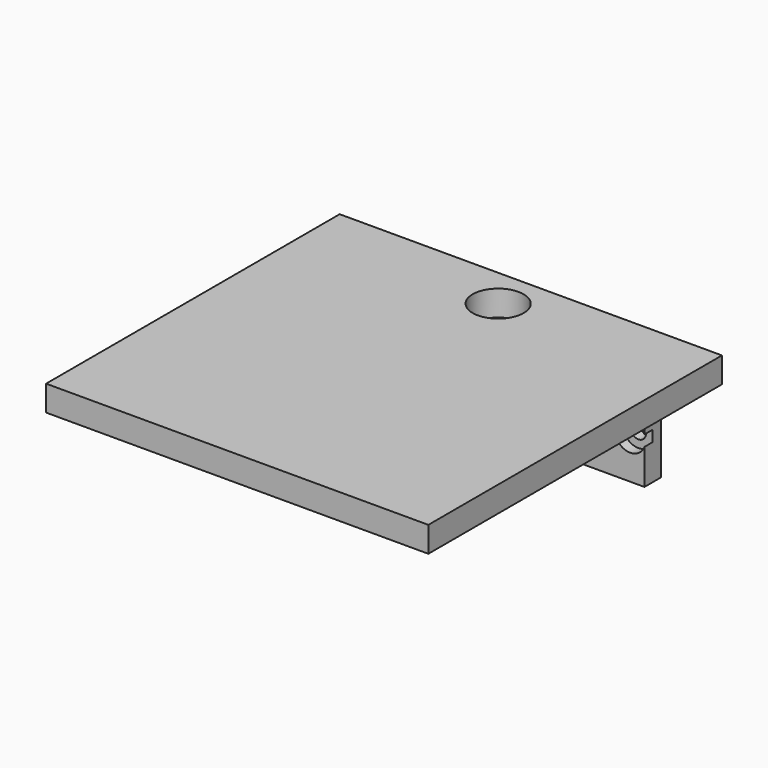
from build123d import *

# Parameters (mm, degrees)
SKETCH074_W     = 75
SKETCH074_H     = 72
SKETCH074_R     = 5
PAD027_DEPTH    = 5
SKETCH076_W     = 15
SKETCH076_H     = 15
PAD029_DEPTH    = 6
SKETCH077_W     = 7.8
SKETCH077_H     = 4
POCKET047_DEPTH = 15
SKETCH086_W     = 18
SKETCH086_H     = 4
PAD033_DEPTH    = 20
SKETCH087_R     = 1.5
POCKET053_DEPTH = 5
SKETCH088_R     = 3
POCKET054_DEPTH = 2


with BuildPart() as part:
    # Sketch074 → Pad027 (new body)
    with BuildSketch(Plane.XY):
        with Locations((0, -1)):
            Rectangle(SKETCH074_W, SKETCH074_H)
        with Locations((0, 27)):
            Circle(SKETCH074_R, mode=Mode.SUBTRACT)
    extrude(amount=PAD027_DEPTH)

    # Sketch076 → Pad029 (join)
    with BuildSketch(Plane(origin=(0, 0, 0), x_dir=(1, 0, 0), z_dir=(0, 0, -1))):
        with Locations((0, -27)):
            Rectangle(SKETCH076_W, SKETCH076_H)
    extrude(amount=PAD029_DEPTH)

    # Sketch077 (on Face8 of Pad029) → Pocket047 (cut)
    with BuildSketch(Plane(origin=(0, 34.5, 0), x_dir=(-1, 0, 0), z_dir=(0, 1, 0))):
        with Locations((0, -3)):
            Rectangle(SKETCH077_W, SKETCH077_H)
    extrude(amount=-POCKET047_DEPTH, mode=Mode.SUBTRACT)

    # Sketch086 (on Face4 of Pocket047) → Pad033 (join)
    with BuildSketch(Plane(origin=(0, 0, 0), x_dir=(1, 0, 0), z_dir=(0, 0, -1))):
        with Locations((-16.5, -33)):
            Rectangle(SKETCH086_W, SKETCH086_H)
        with Locations((16.5, -33)):
            Rectangle(SKETCH086_W, SKETCH086_H)
    extrude(amount=PAD033_DEPTH)

    # Sketch087 (on Face15 of Pad033) → Pocket053 (cut)
    with BuildSketch(Plane.XZ.offset(-31)):
        with Locations((-22.7, -2)):
            Circle(SKETCH087_R)
        with Locations((-22.7, -12)):
            Circle(SKETCH087_R)
    pocket053 = extrude(amount=-POCKET053_DEPTH, mode=Mode.SUBTRACT)

    # Sketch088 (on Face15 of Pocket053) → Pocket054 (cut)
    with BuildSketch(Plane.XZ.offset(-31)):
        with Locations((-22.7, -2)):
            Circle(SKETCH088_R)
        with Locations((-22.7, -12)):
            Circle(SKETCH088_R)
    pocket054 = extrude(amount=-POCKET054_DEPTH, mode=Mode.SUBTRACT)

    # Mirrored004: Pocket053, Pocket054 across Sketch087 V_Axis
    add(pocket053.mirror(Plane(origin=(0, 31, 0), x_dir=(0, -1, 0), z_dir=(1, 0, 0))), mode=Mode.SUBTRACT)
    add(pocket054.mirror(Plane(origin=(0, 31, 0), x_dir=(0, -1, 0), z_dir=(1, 0, 0))), mode=Mode.SUBTRACT)


with BuildPart() as part_1:
    # Body010 placement: moved
    add(part.part.moved(Location((0, 0, 30))))


solid = part_1.part
